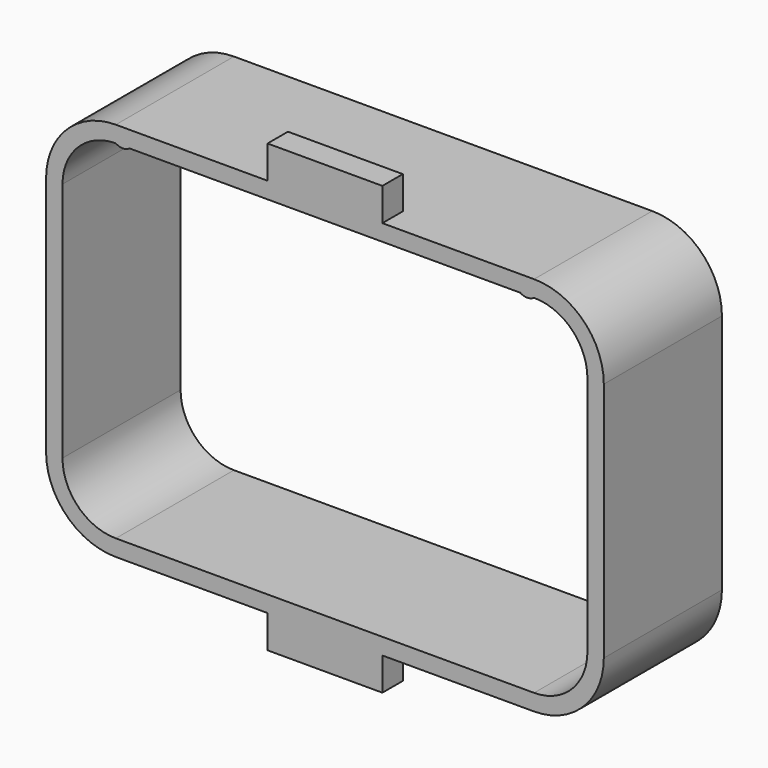
from build123d import *

# Parameters (mm, degrees)
F1_DEPTH = 9
F2_W     = 7
F2_H     = 1.55604
F3_DEPTH = 2
F5_DEPTH = 9
F6_DEPTH = 9
F8_DEPTH = 2


with BuildPart() as f1:
    # F0 (on Front) → F1 (new body)
    with BuildSketch(Plane.XZ):
        with BuildLine():
            Line((17, -7.35), (17, 7.35))
            ThreePointArc((17, 7.35), (15.755204, 10.355204), (12.75, 11.6))
            Line((12.75, 11.6), (-12.75, 11.6))
            ThreePointArc((-12.75, 11.6), (-15.755204, 10.355204), (-17, 7.35))
            Line((-17, 7.35), (-17, -7.35))
            ThreePointArc((-17, -7.35), (-15.755204, -10.355204), (-12.75, -11.6))
            Line((-12.75, -11.6), (12.75, -11.6))
            ThreePointArc((12.75, -11.6), (15.755204, -10.355204), (17, -7.35))
        make_face()
        with BuildLine():
            ThreePointArc((16, -7.35), (15.048097, -9.648097), (12.75, -10.6))
            Line((12.75, -10.6), (-12.75, -10.6))
            ThreePointArc((-12.75, -10.6), (-15.048097, -9.648097), (-16, -7.35))
            Line((-16, -7.35), (-16, 7.35))
            ThreePointArc((-16, 7.35), (-15.048097, 9.648097), (-12.75, 10.6))
            Line((-12.75, 10.6), (12.75, 10.6))
            ThreePointArc((12.75, 10.6), (15.048097, 9.648097), (16, 7.35))
            Line((16, 7.35), (16, -7.35))
        make_face(mode=Mode.SUBTRACT)
    extrude(amount=F1_DEPTH)

    # F2 (on face) → F3 (join)
    with BuildSketch(Plane.XY.offset(11.6)):
        with Locations((0, -8.22198)):
            Rectangle(F2_W, F2_H)
    extrude(amount=F3_DEPTH)

    # F4 (on Front) → F5 (join)
    with BuildSketch(Plane.XZ):
        with BuildLine():
            Line((-11.904627, 10.6), (-12.75, 10.6))
            ThreePointArc((-12.75, 10.6), (-12.327314, 10.469545), (-11.904627, 10.6))
        make_face()
        with BuildLine():
            ThreePointArc((11.904627, 10.6), (12.327314, 10.469545), (12.75, 10.6))
            Line((12.75, 10.6), (11.904627, 10.6))
        make_face()
    extrude(amount=F5_DEPTH)

    # F4 (on Front) → F6 (join)
    with BuildSketch(Plane.XZ):
        with BuildLine():
            Line((-11.904627, 10.6), (-12.75, 10.6))
            ThreePointArc((-12.75, 10.6), (-12.327314, 10.469545), (-11.904627, 10.6))
        make_face()
        with BuildLine():
            ThreePointArc((11.904627, 10.6), (12.327314, 10.469545), (12.75, 10.6))
            Line((12.75, 10.6), (11.904627, 10.6))
        make_face()
    extrude(amount=F6_DEPTH)

    # F7 (on face) → F8 (join)
    with BuildSketch(Plane(origin=(0, 0, -11.6), x_dir=(1, 0, 0), z_dir=(0, 0, -1))):
        Polygon((3.5, 9), (0, 9), (-3.5, 9), (-3.5, 7.44), (0, 7.44), (3.5, 7.44), align=None)
    extrude(amount=F8_DEPTH)


solid = f1.part
